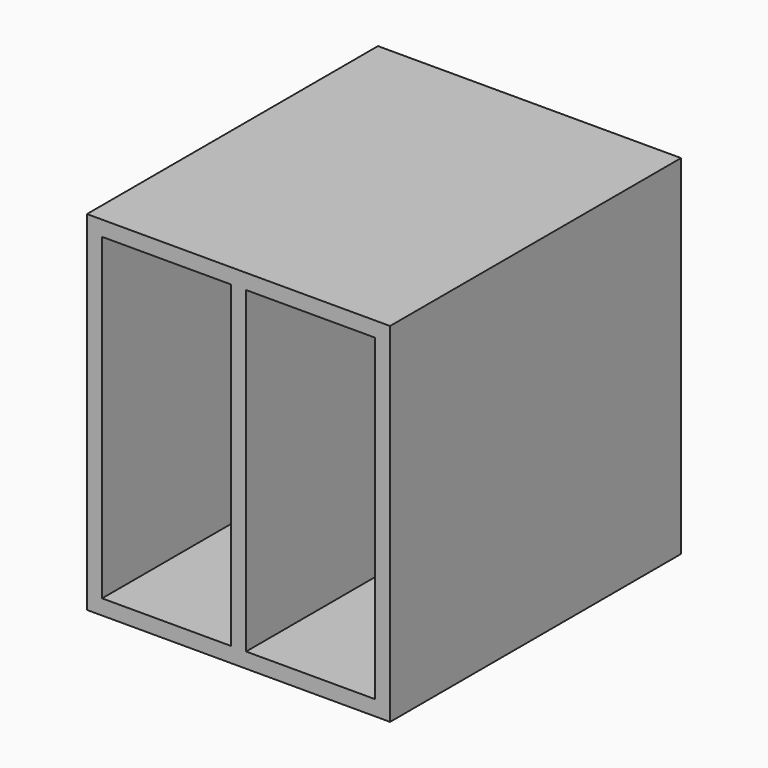
from build123d import *

# Parameters (mm, degrees)
F1_DEPTH = 609.6


with BuildPart() as f1:
    # F0 (on Front) → F1 (new body)
    with BuildSketch(Plane.XZ):
        Polygon((457.2, 25.4), (457.2, 0), (482.6, 0), (482.6, 584.2), (457.2, 584.2), (457.2, 558.8), align=None)
        Polygon((0, 584.2), (0, 558.8), (215.9, 558.8), (215.9, 571.5), (241.3, 571.5), (241.3, 558.8), (457.2, 558.8), (457.2, 584.2), (228.6, 584.2), align=None)
        Polygon((-25.4, 0), (0, 0), (0, 25.4), (0, 558.8), (0, 584.2), (-25.4, 584.2), align=None)
        Polygon((215.9, 558.8), (215.9, 25.4), (215.9, 12.7), (241.3, 12.7), (241.3, 25.4), (241.3, 558.8), (241.3, 571.5), (215.9, 571.5), align=None)
        Polygon((0, 25.4), (0, 0), (228.6, 0), (457.2, 0), (457.2, 25.4), (241.3, 25.4), (241.3, 12.7), (215.9, 12.7), (215.9, 25.4), align=None)
    extrude(amount=-F1_DEPTH)


solid = f1.part
